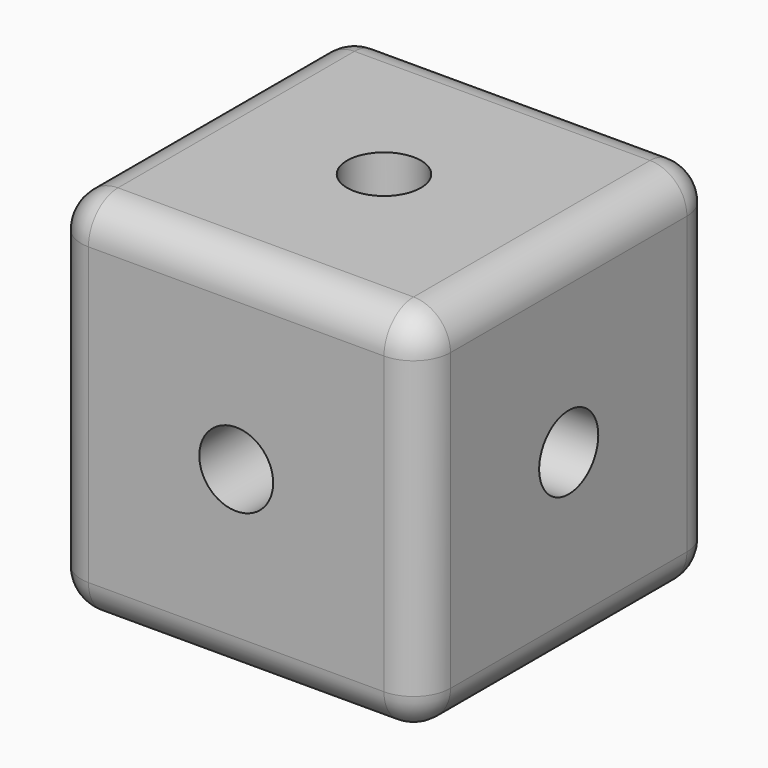
from build123d import *

# Parameters (mm, degrees)
F0_W     = 127
F0_H     = 127
F1_DEPTH = 63.5
F2_DEPTH = 63.5
F3_R     = 12.7
F4_R     = 12.7
F5_DEPTH = 127
F6_R     = 12.7
F7_DEPTH = 127
F8_R     = 12.7
F9_DEPTH = 381


with BuildPart() as f1:
    # F0 (on Top) → F1 (new body)
    with BuildSketch(Plane.XY):
        Rectangle(F0_W, F0_H)
    extrude(amount=F1_DEPTH)

    # F2 (add): faces of the model
    f2_faces = [f1.faces().sort_by_distance(p)[0] for p in [
        (0, 0, 0),
        (0, 0, 63.5),
    ]]
    extrude(f2_faces, amount=F2_DEPTH, dir=(0, 0, -1))

    # F3
    f3_edges = [f1.edges().sort_by_distance(p)[0] for p in [
        (0, -63.5, 63.5),
        (-63.5, 0, 63.5),
        (-63.5, -63.5, 0),
        (0, 63.5, 63.5),
        (63.5, 0, 63.5),
        (63.5, 63.5, 0),
        (63.5, -63.5, 0),
        (63.5, 0, -63.5),
        (0, -63.5, -63.5),
        (-63.5, 63.5, 0),
        (0, 63.5, -63.5),
        (-63.5, 0, -63.5),
    ]]
    fillet(f3_edges, radius=F3_R)

    # F4 (on face) → F5 (cut)
    with BuildSketch(Plane.XY.offset(63.5)):
        Circle(F4_R)
    extrude(amount=-F5_DEPTH, mode=Mode.SUBTRACT)

    # F6 (on face) → F7 (cut)
    with BuildSketch(Plane.XZ.offset(63.5)):
        Circle(F6_R)
    extrude(amount=-F7_DEPTH, mode=Mode.SUBTRACT)

    # F8 (on face) → F9 (cut)
    with BuildSketch(Plane.YZ.offset(63.5)):
        Circle(F8_R)
    extrude(amount=-F9_DEPTH, mode=Mode.SUBTRACT)


solid = f1.part
